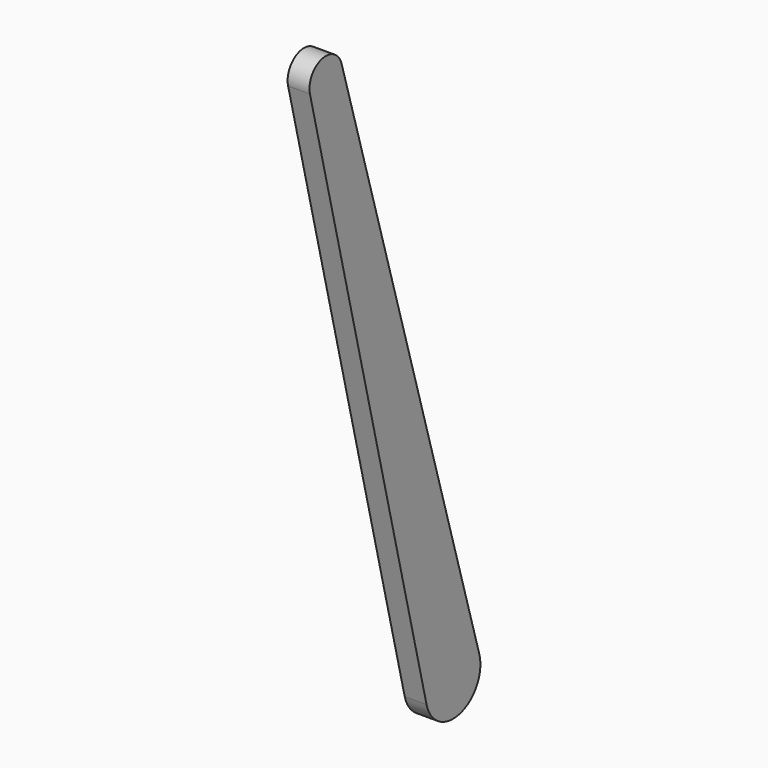
from build123d import *

# Parameters (mm, degrees)
F1_DEPTH = 16


with BuildPart() as f1:
    # F0 (on Right) → F1 (new body)
    with BuildSketch(Plane.YZ):
        with BuildLine():
            Line((23.998394, 7.005504), (-102.069534, 438.869924))
            ThreePointArc((-102.069534, 438.869924), (-120.350856, 449.155509), (-131.040153, 431.10727))
            Line((-131.040153, 431.10727), (-24.285971, -5.932253))
            ThreePointArc((-24.285971, -5.932253), (6.470476, -24.148146), (23.998394, 7.005504))
        make_face()
    extrude(amount=F1_DEPTH)


solid = f1.part
